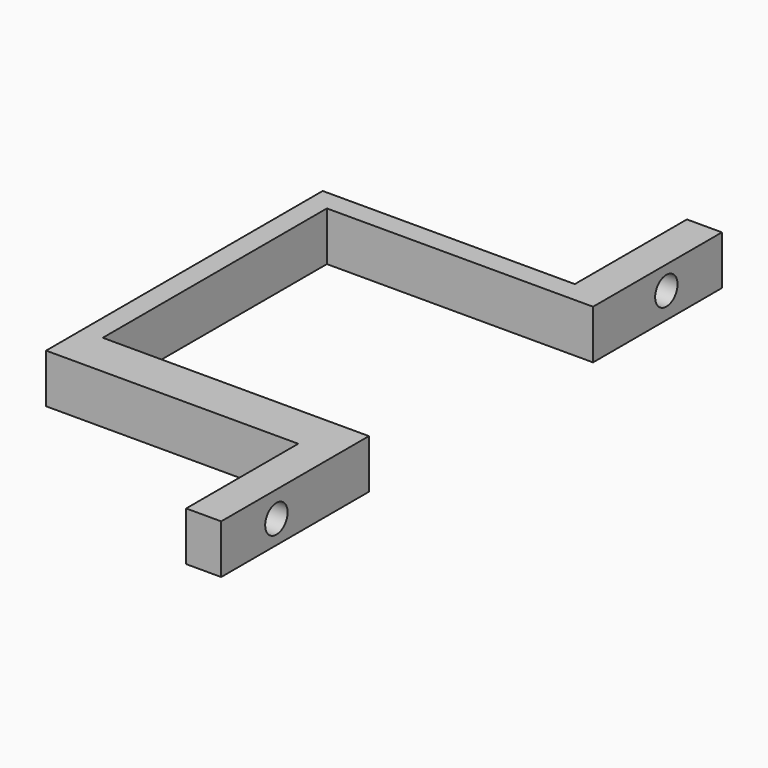
from build123d import *

# Parameters (mm, degrees)
PAD_DEPTH   = 7
SKETCH001_R = 2
HOLE_DEPTH  = 25


with BuildPart() as part:
    # Sketch → Pad (new body)
    with BuildSketch(Plane.XY):
        Polygon((3.174892, 60.362571), (3.174892, 40.362571), (-32.825108, 40.362571), (-32.825108, -9.004902), (3.174892, -9.004902), (3.174892, -29.004902), (8.174892, -29.004902), (8.174892, -2.637429), (-29.825108, -2.637429), (-29.825108, 37.362571), (8.174892, 37.362571), (8.174892, 60.362571), align=None)
    extrude(amount=PAD_DEPTH)

    # Sketch001 (on Face5 of Pad) → Hole (cut)
    with BuildSketch(Plane(origin=(3.174892, 0, 0), x_dir=(0, -1, 0), z_dir=(-1, 0, 0))):
        with Locations((-50.446466, 3.693136)):
            Circle(SKETCH001_R)
        with Locations((19.151445, 3.321884)):
            Circle(SKETCH001_R)
    extrude(amount=-HOLE_DEPTH, mode=Mode.SUBTRACT)


solid = part.part
